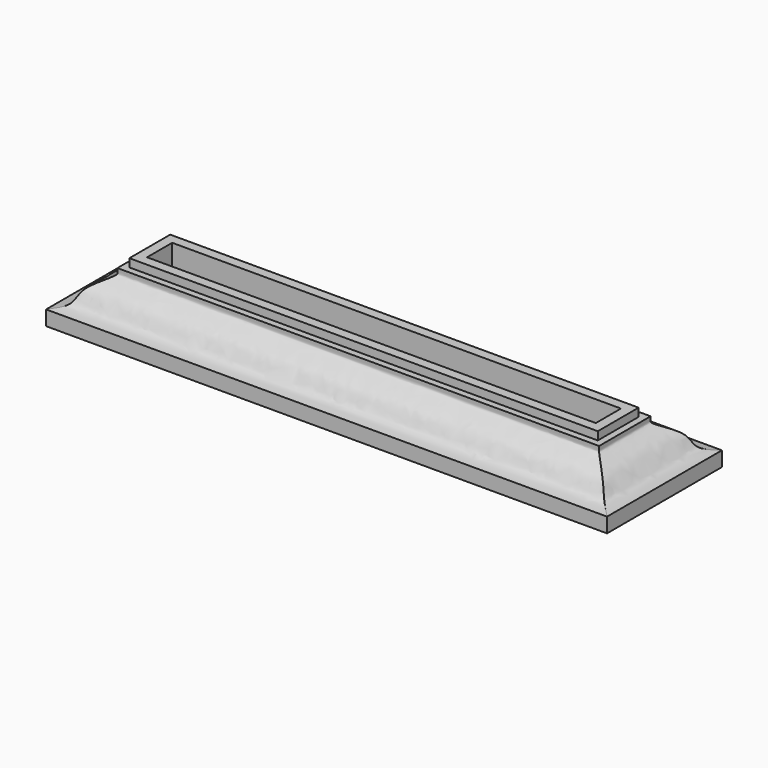
from build123d import *

# Parameters (mm, degrees)
F3_W     = 127
F3_H     = 8.89
F4_DEPTH = 9.525
F5_W     = 133.35
F5_H     = 15.24
F6_DEPTH = 7.88512


with BuildPart() as f2:
    # F2: sweep along a path in F0
    with BuildLine(Plane.XY) as f2_path:
        Line((-63.5, 0), (63.5, 0))
        Line((63.5, 0), (63.5, -8.89))
        Line((63.5, -8.89), (-63.5, -8.89))
        Line((-63.5, -8.89), (-63.5, 0))
    # F1 (on Right) → F2 (sweep)
    with BuildSketch(Plane.YZ):
        with BuildLine():
            Line((0, 4.178553988), (0, 0))
            Line((0, 0), (15.875, 0))
            Line((15.875, 0), (15.875, 4.178553988))
            add(Edge.make_bspline(
                [(15.875, 4.178553988), (14.5700791907, 4.3410316154), (11.3910350226, 4.6434039972), (10.7282030423, 9.3279482792), (4.1216189564, 11.7033571608), (4.6891846979, 12.4869055891), (4.6625201725, 13.5694751074)],
                knots=[0, 0, 0, 0, 0.2552340564, 0.5197508028, 0.8294424133, 1, 1, 1, 1], degree=3))
            Line((4.6625201725, 13.5694751074), (2.7802032419, 13.5694751074))
            Line((2.7802032419, 13.5694751074), (2.7802032419, 15.875))
            Line((2.7802032419, 15.875), (0, 15.875))
            Line((0, 15.875), (0, 4.178553988))
        make_face()
    sweep(path=f2_path.line, transition=Transition.RIGHT)

    # F3 (on Top) → F4 (join)
    with BuildSketch(Plane.XY):
        with Locations((0, -4.445)):
            Rectangle(F3_W, F3_H)
    extrude(amount=F4_DEPTH)

    # F5 (on face) → F6 (cut)
    with BuildSketch(Plane(origin=(0, 0, 0), x_dir=(1, 0, 0), z_dir=(0, 0, -1))):
        with Locations((0, 4.445)):
            Rectangle(F5_W, F5_H)
    extrude(amount=-F6_DEPTH, mode=Mode.SUBTRACT)


solid = f2.part
